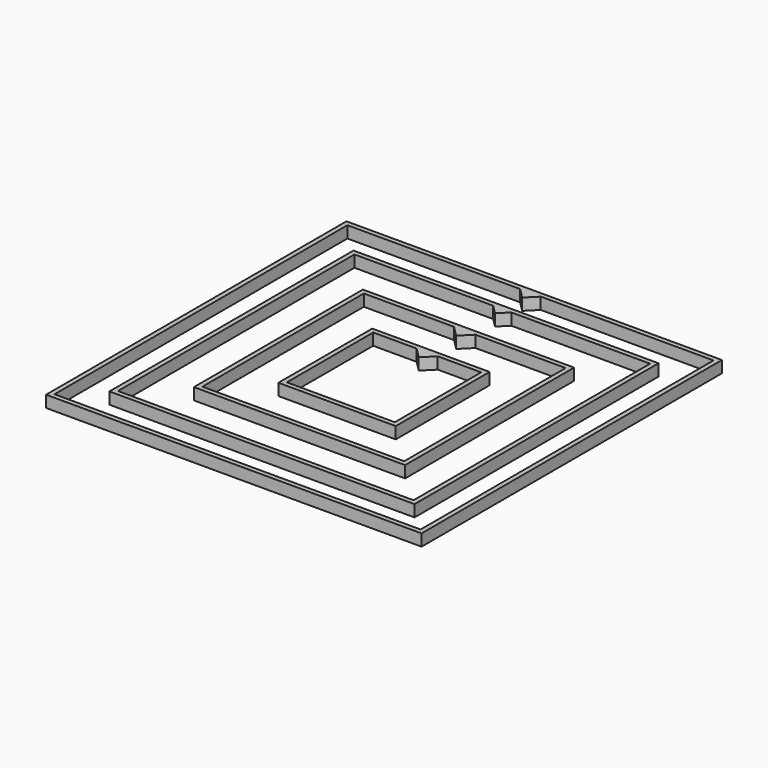
from build123d import *

# Parameters (mm, degrees)
F0_W     = 160
F0_H     = 160
F0_W_2   = 156
F0_H_2   = 156
F1_DEPTH = 5
F0_W_3   = 130
F0_H_3   = 130
F0_W_4   = 126
F0_H_4   = 126
F0_W_5   = 90
F0_H_5   = 90
F0_W_6   = 86
F0_H_6   = 86
F0_W_7   = 50
F0_H_7   = 50
F0_W_8   = 46
F0_H_8   = 46.0000012871
F3_DEPTH = 5


with BuildPart() as f1:
    # F0 (on Top) → F1 (new body)
    with BuildSketch(Plane.XY):
        Rectangle(F0_W, F0_H)
        Rectangle(F0_W_2, F0_H_2, mode=Mode.SUBTRACT)
    extrude(amount=F1_DEPTH)

    # F2 (on Top) → F3 (join)
    with BuildSketch(Plane.XY):
        Polygon((0, 73.6079147614), (0, 78.6079147614), (-5.1205901883, 78.7285049497), align=None)
        Polygon((5, 78.6079147614), (0, 78.6079147614), (0, 73.6079147614), align=None)
    extrude(amount=F3_DEPTH)


with BuildPart() as f1b:
    # F0 (on Top) → F1, piece 2 (new body)
    with BuildSketch(Plane.XY):
        Rectangle(F0_W_3, F0_H_3)
        Rectangle(F0_W_4, F0_H_4, mode=Mode.SUBTRACT)
    extrude(amount=F1_DEPTH)

    # F2 (on Top) → F3, piece 2 (join)
    with BuildSketch(Plane.XY):
        Polygon((4.4469106392, 63.5754074351), (0, 64.1284967959), (0, 59.1284967959), align=None)
        Polygon((0, 59.1284967959), (0, 64.1284967959), (-4.4469106392, 63.5754074351), align=None)
    extrude(amount=F3_DEPTH)


with BuildPart() as f1c:
    # F0 (on Top) → F1, piece 3 (new body)
    with BuildSketch(Plane.XY):
        Rectangle(F0_W_5, F0_H_5)
        Rectangle(F0_W_6, F0_H_6, mode=Mode.SUBTRACT)
    extrude(amount=F1_DEPTH)

    # F2 (on Top) → F3, piece 3 (join)
    with BuildSketch(Plane.XY):
        Polygon((0, 38.445033133), (0, 43.445033133), (-5.3175765089, 43.7626096419), align=None)
        Polygon((5, 43.445033133), (0, 43.445033133), (0, 38.445033133), align=None)
    extrude(amount=F3_DEPTH)


with BuildPart() as f1d:
    # F0 (on Top) → F1, piece 4 (new body)
    with BuildSketch(Plane.XY):
        Rectangle(F0_W_7, F0_H_7)
        Rectangle(F0_W_8, F0_H_8, mode=Mode.SUBTRACT)
    extrude(amount=F1_DEPTH)

    # F2 (on Top) → F3, piece 4 (join)
    with BuildSketch(Plane.XY):
        Polygon((0, 18.5014363378), (0, 23.5014363378), (-5, 23.5014363378), align=None)
        Polygon((4.5980428482, 23.0994791861), (0, 23.5014363378), (0, 18.5014363378), align=None)
    extrude(amount=F3_DEPTH)


solid = Compound([f1.part, f1b.part, f1c.part, f1d.part])
